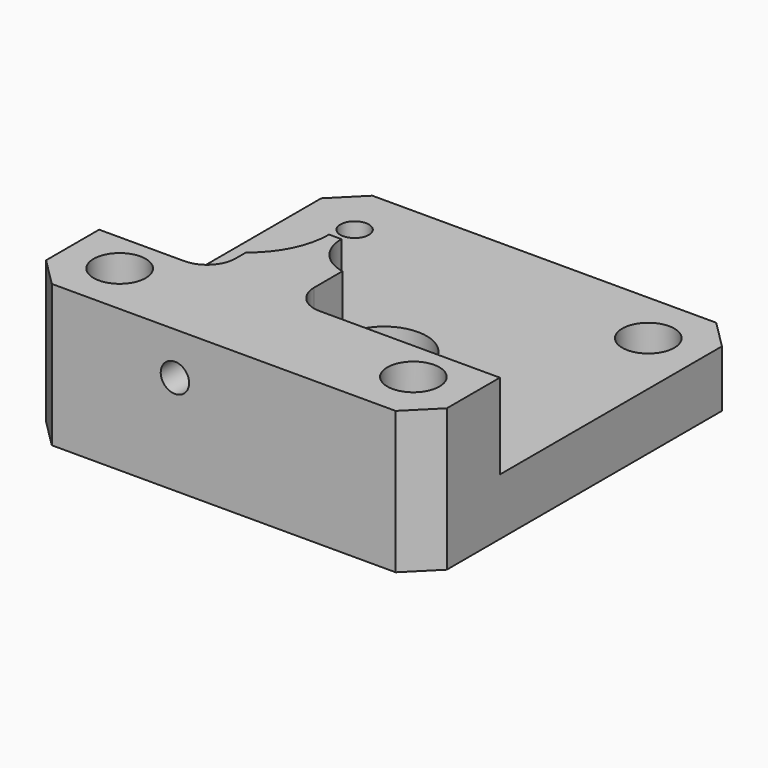
from build123d import *

# Parameters (mm, degrees)
SKETCH_R        = 1.5
PAD_DEPTH       = 9
FILLET_R        = 3
SKETCH001_W     = 42.3
SKETCH001_H     = 42.3
SKETCH001_R     = 1.5
SKETCH001_R_2   = 4.5
PAD001_DEPTH    = 6
SKETCH002_R     = 1.5
POCKET_DEPTH    = 21.15
CHAMFER_SIZE    = 3
SKETCH003_R     = 2.75
POCKET001_DEPTH = 2.9
SKETCH004_R     = 2.75
POCKET002_DEPTH = 2.9


with BuildPart() as part:
    # Sketch → Pad (new body)
    with BuildSketch(Plane.XY):
        with BuildLine():
            Line((-21.15, -11.15), (-9.15, -11.15))
            Line((-9.15, -6.762211), (-9.15, -11.15))
            ThreePointArc((-9.15, -6.762211), (-6.683406, -3.773261), (-5.8, 0))
            Line((-5.8, 0), (-4.5, 0))
            ThreePointArc((-4.5, 0), (-3.46951, -2.865746), (-0.85, -4.418993))
            Line((-0.85, -4.418993), (-0.85, -11.15))
            Line((-0.85, -11.15), (21.15, -11.15))
            Line((21.15, -11.15), (21.15, -21.15))
            Line((21.15, -21.15), (-21.15, -21.15))
            Line((-21.15, -21.15), (-21.15, -11.15))
        make_face()
        with Locations((-15.5, -15.5)):
            Circle(SKETCH_R, mode=Mode.SUBTRACT)
        with Locations((15.5, -15.5)):
            Circle(SKETCH_R, mode=Mode.SUBTRACT)
    extrude(amount=PAD_DEPTH)

    # Fillet
    fillet_edges = [part.edges().sort_by_distance(p)[0] for p in [
        (-9.15, -11.15, 4.5),
        (-0.85, -11.15, 4.5),
    ]]
    fillet(fillet_edges, radius=FILLET_R)

    # Sketch001 → Pad001 (new body)
    with BuildSketch(Plane(origin=(0, 0, 0), x_dir=(1, 0, 0), z_dir=(0, 0, -1))):
        Rectangle(SKETCH001_W, SKETCH001_H)
        with Locations((15.5, -15.5)):
            Circle(SKETCH001_R, mode=Mode.SUBTRACT)
        with Locations((-15.5, -15.5)):
            Circle(SKETCH001_R, mode=Mode.SUBTRACT)
        Circle(SKETCH001_R_2, mode=Mode.SUBTRACT)
    extrude(amount=PAD001_DEPTH)

    # Sketch002 → Pocket (cut)
    with BuildSketch(Plane(origin=(0, 0, 0), x_dir=(-1, 0, 0), z_dir=(0, 1, 0))):
        with Locations((5.15, 4.5)):
            Circle(SKETCH002_R)
    extrude(amount=-POCKET_DEPTH, mode=Mode.SUBTRACT)

    # Chamfer
    chamfer_edges = [part.edges().sort_by_distance(p)[0] for p in [
        (-21.15, 21.15, -3),
        (-21.15, -21.15, -3),
        (21.15, -21.15, -3),
        (21.15, 21.15, -3),
    ]]
    chamfer(chamfer_edges, length=CHAMFER_SIZE)

    # Sketch003 → Pocket001 (cut)
    with BuildSketch(Plane.XY.offset(9)):
        with Locations((15.5, -15.5)):
            Circle(SKETCH003_R)
        with Locations((-15.5, -15.5)):
            Circle(SKETCH003_R)
    extrude(amount=-POCKET001_DEPTH, mode=Mode.SUBTRACT)

    # Sketch004 → Pocket002 (cut)
    with BuildSketch(Plane.XY):
        with Locations((15.5, 15.5)):
            Circle(SKETCH004_R)
    extrude(amount=-POCKET002_DEPTH, mode=Mode.SUBTRACT)


solid = part.part
